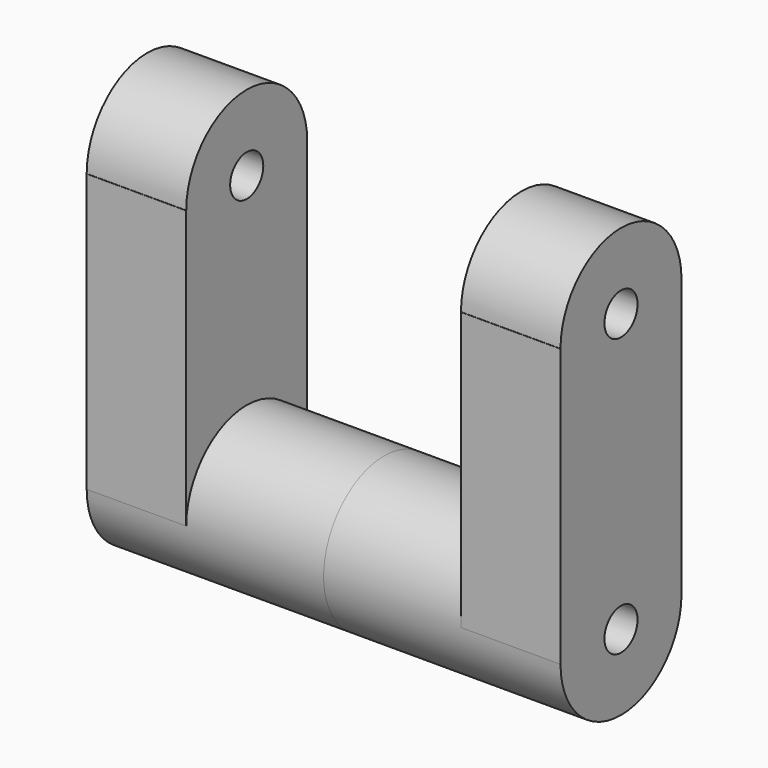
from build123d import *

# Parameters (mm, degrees)
F0_R     = 5.278716
F1_DEPTH = 25.4
F2_DEPTH = 60.452


with BuildPart() as f1:
    # F0 (on Right) → F1 (new body)
    with BuildSketch(Plane.YZ):
        with BuildLine():
            ThreePointArc((-19.292207, 0), (0, 19.292207), (19.292207, 0))
            Line((19.292207, 0), (19.292207, 70.858531))
            ThreePointArc((19.292207, 70.858531), (0, 51.566324), (-19.292207, 70.858531))
            Line((-19.292207, 70.858531), (-19.348826, 70.858531))
            Line((-19.348826, 70.858531), (-19.348826, 0))
            Line((-19.348826, 0), (-19.292207, 0))
        make_face()
        with BuildLine():
            ThreePointArc((-19.292207, 0), (0, 19.292207), (19.292207, 0))
            Line((19.292207, 0), (19.292207, 70.858531))
            ThreePointArc((19.292207, 70.858531), (0, 51.566324), (-19.292207, 70.858531))
            Line((-19.292207, 70.858531), (-19.348826, 70.858531))
            Line((-19.348826, 70.858531), (-19.348826, 0))
            Line((-19.348826, 0), (-19.292207, 0))
        make_face()
        with BuildLine():
            ThreePointArc((-19.292207, 70.858531), (0, 51.566324), (19.292207, 70.858531))
            ThreePointArc((19.292207, 70.858531), (0, 90.150737), (-19.292207, 70.858531))
        make_face()
        with Locations((0, 70.858531)):
            Circle(F0_R, mode=Mode.SUBTRACT)
    extrude(amount=F1_DEPTH)

    # F0 (on Right) → F2 (join)
    with BuildSketch(Plane.YZ):
        with BuildLine():
            ThreePointArc((-19.292207, 0), (0, -19.292207), (19.292207, 0))
            ThreePointArc((19.292207, 0), (0, 19.292207), (-19.292207, 0))
        make_face()
        Circle(F0_R, mode=Mode.SUBTRACT)
    extrude(amount=F2_DEPTH)


with BuildPart() as f3_1:
    # F3: instance of F1
    add(f1.part.mirror(Plane.YZ.offset(60.452)))


solid = Compound([f1.part, f3_1.part])
